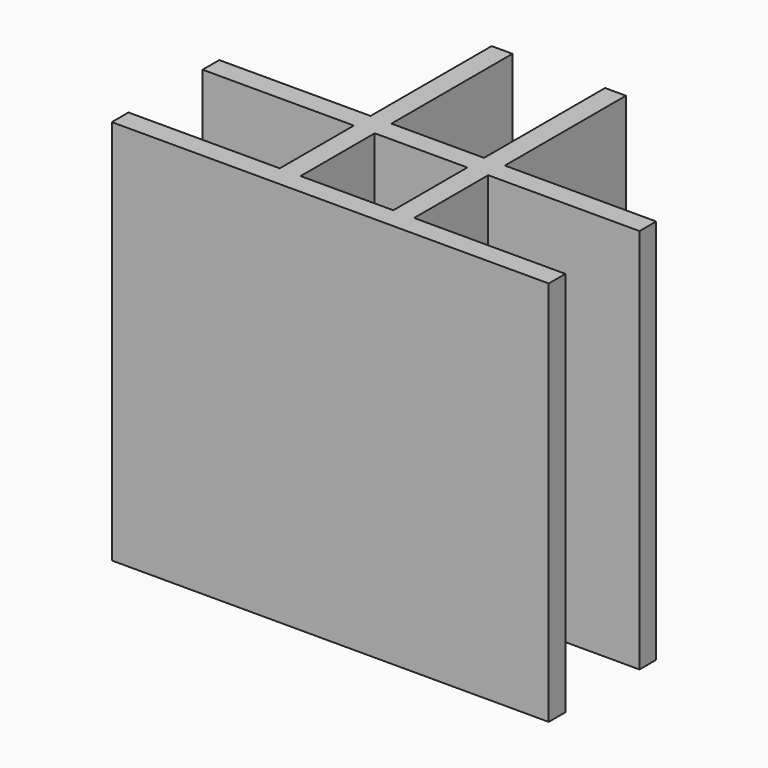
from build123d import *

# Parameters (mm, degrees)
F0_W     = 1.35
F0_H     = 6
F0_W_2   = 6
F0_H_2   = 1.35
F0_W_3   = 9.8
F0_H_3   = 9.8
F1_DEPTH = 25


with BuildPart() as f1:
    # F0 (on Top) → F1 (new body)
    with BuildSketch(Plane.XY):
        Polygon((4.35, -3), (3, -3), (-3, -3), (-4.35, -3), (-4.35, -4.35), (4.35, -4.35), align=None)
        with Locations((3.675, 0)):
            Rectangle(F0_W, F0_H)
        with Locations((-3.675, 0)):
            Rectangle(F0_W, F0_H)
        with Locations((0, 3.675)):
            Rectangle(F0_W_2, F0_H_2)
        with Locations((3.675, 3.675)):
            Rectangle(F0_W, F0_H_2)
        with Locations((9.25, -3.675)):
            Rectangle(F0_W_3, F0_H_2)
        with Locations((-3.675, 3.675)):
            Rectangle(F0_W, F0_H_2)
        with Locations((-9.25, -3.675)):
            Rectangle(F0_W_3, F0_H_2)
        with Locations((3.675, 9.25)):
            Rectangle(F0_W, F0_H_3)
        with Locations((9.25, 3.675)):
            Rectangle(F0_W_3, F0_H_2)
        with Locations((-3.675, 9.25)):
            Rectangle(F0_W, F0_H_3)
        with Locations((-9.25, 3.675)):
            Rectangle(F0_W_3, F0_H_2)
    extrude(amount=F1_DEPTH)


solid = f1.part
